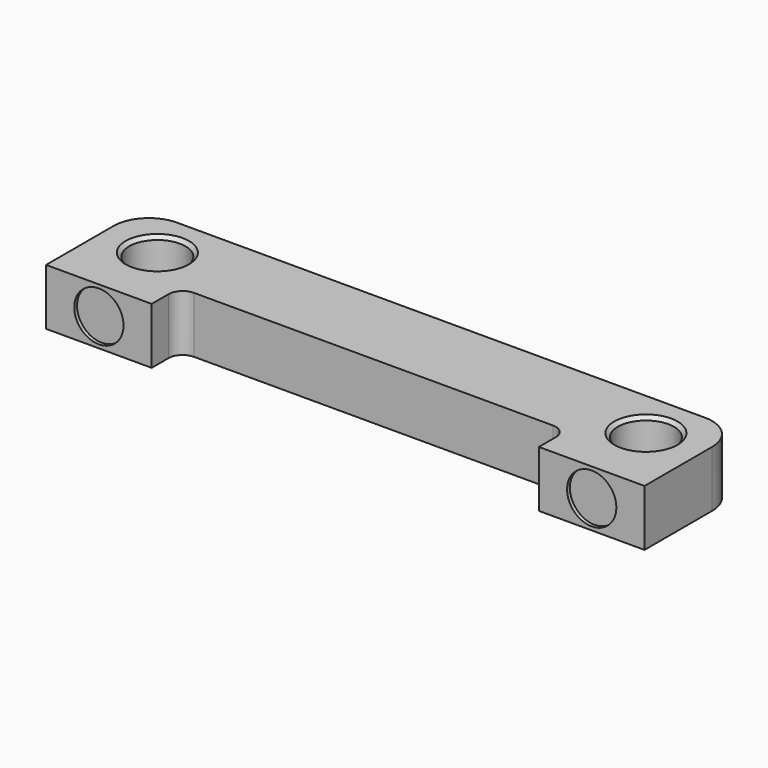
from build123d import *

# Parameters (mm, degrees)
SKETCH_R     = 4
PAD_DEPTH    = 8
SKETCH001_R  = 3.5
POCKET_DEPTH = 0.5
CHAMFER_SIZE = 0.5


with BuildPart() as part:
    # Sketch → Pad (new body)
    with BuildSketch(Plane.XY):
        with BuildLine():
            Line((-42.5, -10), (-27.5, -10))
            Line((-27.5, -10), (-27.5, -7))
            ThreePointArc((-25.5, -5), (-26.914214, -5.585786), (-27.5, -7))
            Line((-25.5, -5), (25.5, -5))
            ThreePointArc((27.5, -7), (26.914214, -5.585786), (25.5, -5))
            Line((27.5, -7), (27.5, -10))
            Line((27.5, -10), (42.5, -10))
            Line((42.5, -10), (42.5, 2))
            ThreePointArc((42.5, 2), (41.035534, 5.535534), (37.5, 7))
            Line((37.5, 7), (-37.5, 7))
            ThreePointArc((-37.5, 7), (-41.035534, 5.535534), (-42.5, 2))
            Line((-42.5, 2), (-42.5, -10))
        make_face()
        with Locations((-34.7, 0)):
            Circle(SKETCH_R, mode=Mode.SUBTRACT)
        with Locations((34.7, 0)):
            Circle(SKETCH_R, mode=Mode.SUBTRACT)
    extrude(amount=PAD_DEPTH)

    # Sketch001 (on Face2 of Pad) → Pocket (cut)
    with BuildSketch(Plane.XZ.offset(10)):
        with Locations((-35, 4)):
            Circle(SKETCH001_R)
        with Locations((35, 4)):
            Circle(SKETCH001_R)
    extrude(amount=-POCKET_DEPTH, mode=Mode.SUBTRACT)

    # Chamfer
    chamfer_edges = [part.edges().sort_by_distance(p)[0] for p in [
        (30.7, 0, 8),
        (-38.7, 0, 8),
    ]]
    chamfer(chamfer_edges, length=CHAMFER_SIZE)


solid = part.part
